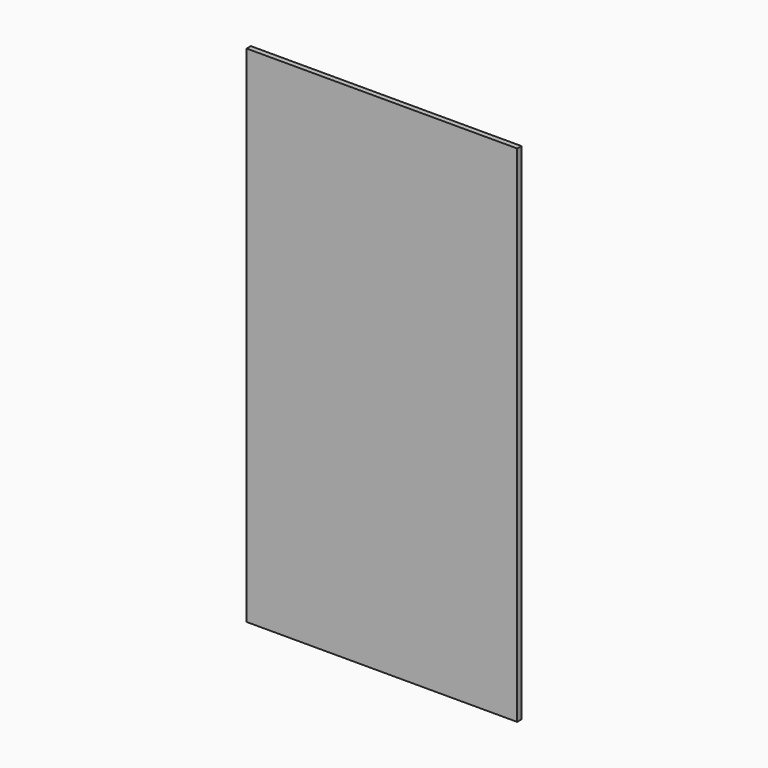
from build123d import *

# Parameters (mm, degrees)
F0_W     = 82
F0_H     = 153
F1_DEPTH = 1.6
F2_W     = 74
F2_H     = 3
F3_DEPTH = 1.6


with BuildPart() as f1:
    # F0 (on Front) → F1 (new body)
    with BuildSketch(Plane.XZ):
        with Locations((-41, 0)):
            Rectangle(F0_W, F0_H)
    extrude(amount=F1_DEPTH)

    # F2 (on Front) → F3 (join)
    with BuildSketch(Plane.XZ):
        with Locations((-41, 69)):
            Rectangle(F2_W, F2_H)
        with Locations((-41, 51)):
            Rectangle(F2_W, F2_H)
    extrude(amount=-F3_DEPTH)


solid = f1.part
